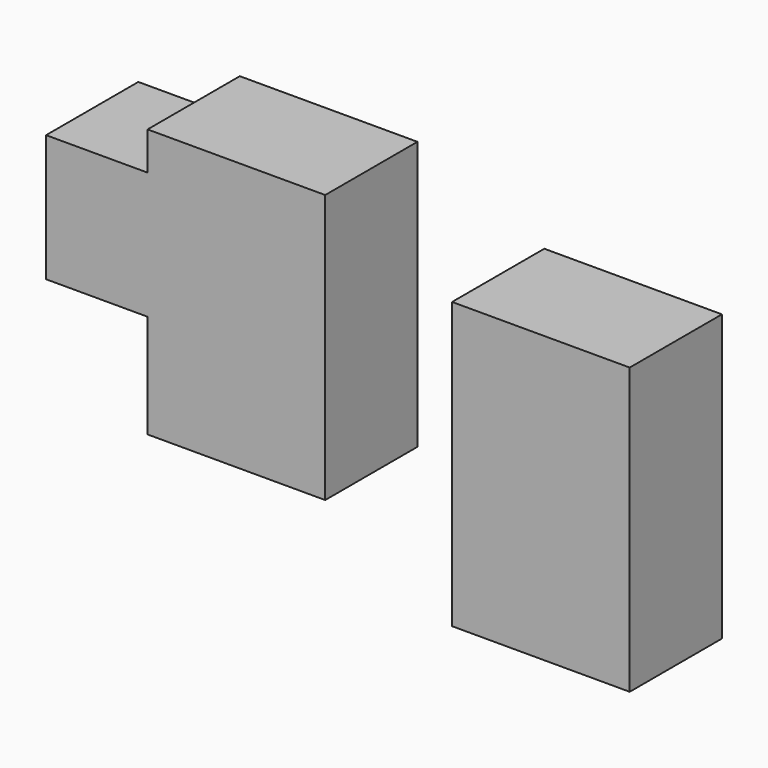
from build123d import *

# Parameters (mm, degrees)
F0_W     = 39.1384833492
F0_H     = 27.9560647905
F0_H_2   = 22.8307805955
F0_W_2   = 22.364847362
F0_H_3   = 8.3868168294
F1_DEPTH = 25.4
F0_W_3   = 39.1384866089
F0_H_4   = 24.6945247054
F0_H_5   = 38.2066071033


with BuildPart() as f1:
    # F0 (on Front) → F1 (new body)
    with BuildSketch(Plane.XZ):
        with Locations((-24.2285865825, -22.3648492247)):
            Rectangle(F0_W, F0_H)
        with Locations((-24.2285865825, -47.7582719177)):
            Rectangle(F0_W, F0_H_2)
        with Locations((-54.9802519381, -22.3648492247)):
            Rectangle(F0_W_2, F0_H)
        with Locations((-24.2285865825, -4.1934084147)):
            Rectangle(F0_W, F0_H_3)
    extrude(amount=F1_DEPTH)


with BuildPart() as f1b:
    # F0 (on Front) → F1, piece 2 (new body)
    with BuildSketch(Plane.XZ):
        with Locations((42.8659627214, -23.9956192672)):
            Rectangle(F0_W_3, F0_H_4)
        with Locations((42.8659627214, -55.4461851716)):
            Rectangle(F0_W_3, F0_H_5)
    extrude(amount=F1_DEPTH)


solid = Compound([f1.part, f1b.part])
